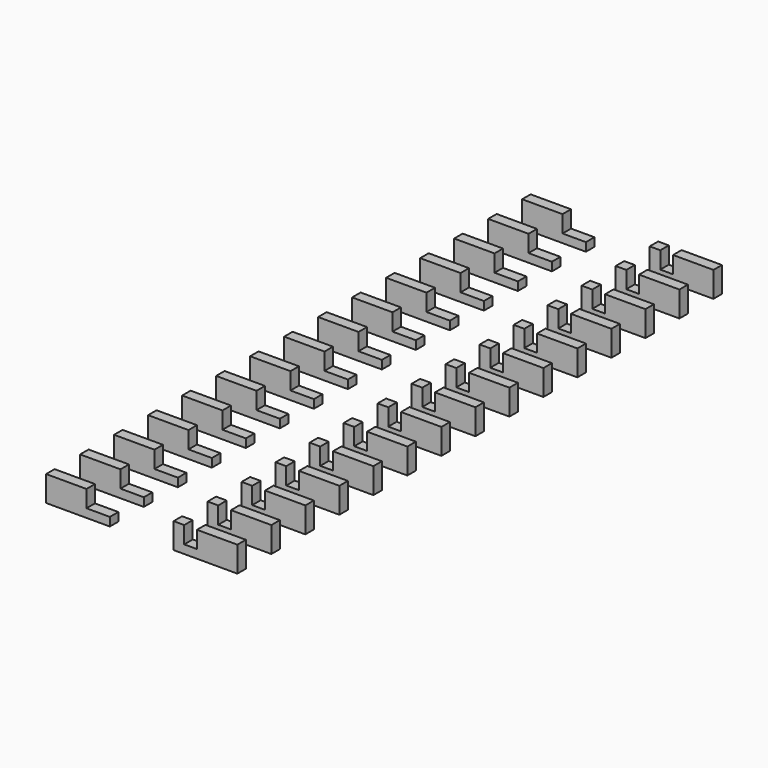
from build123d import *

# Parameters (mm, degrees)
BOX059_W         = 0.3
BOX059_H         = 20
BOX059_DEPTH     = 4
BOX061_W         = 0.1
BOX061_H         = 0.2
BOX061_DEPTH     = 3
ARRAY017_Y_COUNT = 15
ARRAY017_Y_PITCH = 1
BOX060_W         = 1
BOX060_H         = 16
BOX060_DEPTH     = 5.2
BOX055_W         = 1.5
BOX055_H         = 0.25
BOX055_DEPTH     = 0.6
ARRAY016_X_COUNT = 2
ARRAY016_X_PITCH = 3
ARRAY016_Y_COUNT = 15
ARRAY016_Y_PITCH = 1


with BuildPart() as cube036:
    # Box059 → Box059 (new body)
    with BuildSketch(Plane(origin=(1, -10, 0.2), x_dir=(1, 0, 0), z_dir=(0, 0, 1))):
        with Locations((0.15, 10)):
            Rectangle(BOX059_W, BOX059_H)
    extrude(amount=BOX059_DEPTH)


with BuildPart() as cube006:
    # Clone030 base: copy of Cube036
    add(cube036.part)


with BuildPart() as cube006_1:
    # Clone030 placement: moved
    add(cube006.part.moved(Location((-2.3, 0, 0))))


with BuildPart() as array017:
    # Box061 → Box061 (new body)
    with BuildSketch(Plane(origin=(-0.4, -7.1, 2.4), x_dir=(1, 0, 0), z_dir=(0, 0, 1))):
        with Locations((0.05, 0.1)):
            Rectangle(BOX061_W, BOX061_H)
    extrude(amount=BOX061_DEPTH)

    # Array017 Y: Array017 ×15


with BuildPart() as array017_1:
    add(array017.part)
    with Locations(*[(0, i * ARRAY017_Y_PITCH, 0) for i in range(1, ARRAY017_Y_COUNT)]):
        add(array017.part)


with BuildPart() as cut012:
    # Box060 → Box060 (new body)
    with BuildSketch(Plane(origin=(-1.3, -8, 0.2), x_dir=(1, 0, 0), z_dir=(0, 0, 1))):
        with Locations((0.5, 8)):
            Rectangle(BOX060_W, BOX060_H)
    extrude(amount=BOX060_DEPTH)

    # Cut012: cut Array017
    add(array017_1.part, mode=Mode.SUBTRACT)


with BuildPart() as fusion045:
    # Fusion045 base: copy of Cube036
    add(cube036.part)

    # Fusion045: union Cube006, Cut012
    add(cube006_1.part)
    add(cut012.part)


with BuildPart() as pins004:
    # Box055 → Box055 (new body)
    with BuildSketch(Plane(origin=(-2.25, -7.125, 0), x_dir=(1, 0, 0), z_dir=(0, 0, 1))):
        with Locations((0.75, 0.125)):
            Rectangle(BOX055_W, BOX055_H)
    extrude(amount=BOX055_DEPTH)

    # Array016 X: Pins004 ×2


with BuildPart() as pins004_1:
    add(pins004.part)
    with Locations(*[(i * ARRAY016_X_PITCH, 0, 0) for i in range(1, ARRAY016_X_COUNT)]):
        add(pins004.part)

    # Array016 Y: Pins004 ×15


with BuildPart() as pins004_2:
    add(pins004_1.part)
    with Locations(*[(0, i * ARRAY016_Y_PITCH, 0) for i in range(1, ARRAY016_Y_COUNT)]):
        add(pins004_1.part)

    # Cut013: cut Fusion045
    add(fusion045.part, mode=Mode.SUBTRACT)


solid = pins004_2.part
